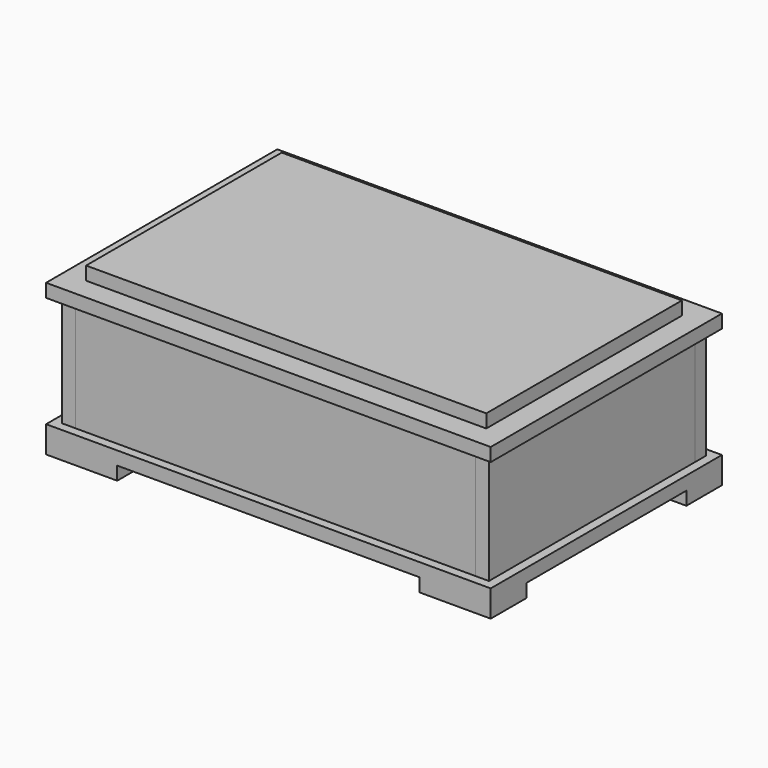
from build123d import *

# Parameters (mm, degrees)
F0_W      = 180
F0_H      = 110
F1_DEPTH  = 6
F2_W      = 180
F2_H      = 44
F2_H_2    = 6
F3_DEPTH  = 6
F4_W      = 110
F4_H      = 50
F4_W_2    = 6
F5_DEPTH  = 6
F6_W      = 6
F6_H      = 50
F7_DEPTH  = 6
F8_W      = 116
F8_H      = 50.282895565
F8_W_2    = 6
F9_DEPTH  = 6
F10_W     = 200
F10_H     = 130
F10_W_2   = 180
F10_H_2   = 110
F11_DEPTH = 6
F13_W     = 32
F13_H     = 20
F14_DEPTH = 6


with BuildPart() as f1:
    # F0 (on Top) → F1 (new body)
    with BuildSketch(Plane.XY):
        with Locations((-23.2697317004, 75.8618436009)):
            Rectangle(F0_W, F0_H)
    extrude(amount=F1_DEPTH)

    # F10 (on face) → F11 (join)
    with BuildSketch(Plane(origin=(0, 0, 0), x_dir=(1, 0, 0), z_dir=(0, 0, -1))):
        with Locations((-23.2697317004, -75.8618436009)):
            Rectangle(F10_W, F10_H)
        with Locations((-23.2697317004, -75.8618436009)):
            Rectangle(F10_W_2, F10_H_2, mode=Mode.SUBTRACT)
        with Locations((-23.2697317004, -75.8618436009)):
            Rectangle(F10_W_2, F10_H_2)
    extrude(amount=F11_DEPTH)


with BuildPart() as f3:
    # F2 (on face) → F3 (new body)
    with BuildSketch(Plane.XZ.offset(-20.8618436009)):
        with Locations((-23.2697317004, 28)):
            Rectangle(F2_W, F2_H)
        with Locations((-23.2697317004, 3)):
            Rectangle(F2_W, F2_H_2)
    extrude(amount=F3_DEPTH)


with BuildPart() as f5:
    # F4 (on face) → F5 (new body)
    with BuildSketch(Plane.YZ.offset(66.7302682996)):
        with Locations((75.8618436009, 25)):
            Rectangle(F4_W, F4_H)
        with Locations((17.8618436009, 25)):
            Rectangle(F4_W_2, F4_H)
    extrude(amount=F5_DEPTH)


with BuildPart() as f7:
    # F6 (on face) → F7 (new body)
    with BuildSketch(Plane(origin=(0, 130.8618436009, 0), x_dir=(-1, 0, 0), z_dir=(0, 1, 0))):
        Polygon((-66.7302682996, 50), (-66.7302682996, 0), (113.2697317004, 0), (113.2697317004, 50.282895565), (-72.7302682996, 50.282895565), (-72.7302682996, 50), align=None)
        with Locations((-69.7302682996, 25)):
            Rectangle(F6_W, F6_H)
    extrude(amount=F7_DEPTH)


with BuildPart() as f9:
    # F8 (on face) → F9 (new body)
    with BuildSketch(Plane(origin=(-113.2697317004, 0, 0), x_dir=(0, -1, 0), z_dir=(-1, 0, 0))):
        with Locations((-72.8618436009, 25.1414477825)):
            Rectangle(F8_W, F8_H)
        with Locations((-133.8618436009, 25.1414477825)):
            Rectangle(F8_W_2, F8_H)
    extrude(amount=F9_DEPTH)


with BuildPart() as f12_1:
    # F12: copy of F1
    add(f1.part.moved(Location((0, 0, 56))))


with BuildPart() as f1_1:
    add(f1.part)

    # F13 (on face) → F14 (join)
    with BuildSketch(Plane(origin=(0, 0, -6), x_dir=(1, 0, 0), z_dir=(0, 0, -1))):
        with Locations((60.7302682996, -130.8618436009)):
            Rectangle(F13_W, F13_H)
        with Locations((-107.2697317004, -130.8618436009)):
            Rectangle(F13_W, F13_H)
        with Locations((-107.2697317004, -20.8618436009)):
            Rectangle(F13_W, F13_H)
        with Locations((60.7302682996, -20.8618436009)):
            Rectangle(F13_W, F13_H)
    extrude(amount=F14_DEPTH)


solid = Compound([f3.part, f5.part, f7.part, f9.part, f12_1.part, f1_1.part])
